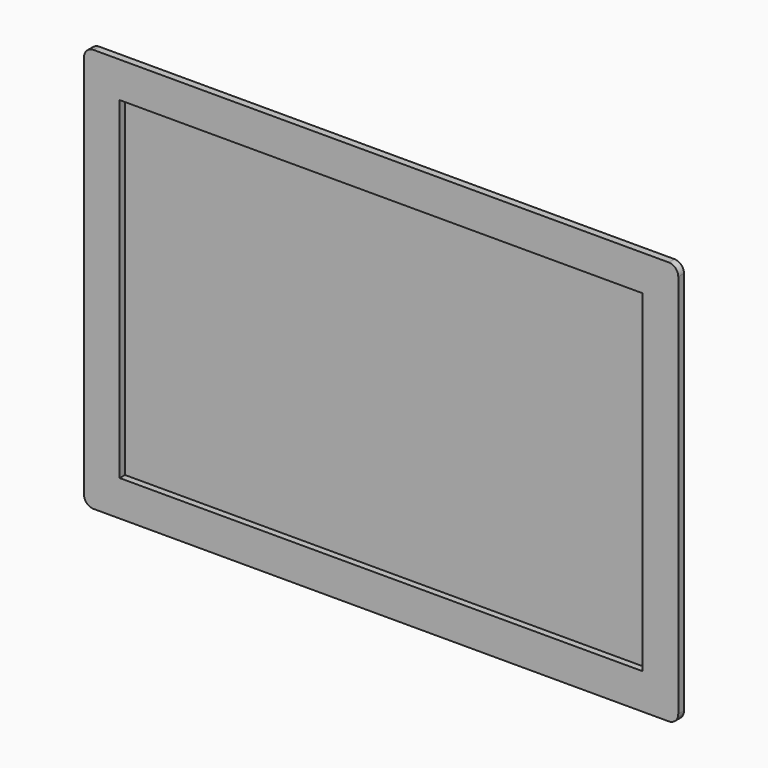
from build123d import *

# Parameters (mm, degrees)
F0_W     = 317.5
F0_H     = 215.9
F1_DEPTH = 3.81
F2_R     = 5.08
F3_R     = 5.08
F4_W     = 279.4
F4_H     = 177.8
F5_DEPTH = 25.4
F6_W     = 279.4
F6_H     = 177.8
F7_DEPTH = 0.254
F8_R     = 27.6352
F9_DEPTH = 0.0635


with BuildPart() as f1:
    # F0 (on Front) → F1 (new body)
    with BuildSketch(Plane.XZ):
        Rectangle(F0_W, F0_H)
    extrude(amount=F1_DEPTH)

    # F2
    f2_edges = [f1.edges().sort_by_distance(p)[0] for p in [
        (-158.75, -1.905, -107.95),
    ]]
    fillet(f2_edges, radius=F2_R)

    # F3
    f3_edges = [f1.edges().sort_by_distance(p)[0] for p in [
        (-158.75, -1.905, 107.95),
        (158.75, -1.905, 107.95),
        (158.75, -1.905, -107.95),
    ]]
    fillet(f3_edges, radius=F3_R)

    # F4 (on face) → F5 (cut)
    with BuildSketch(Plane.XZ.offset(3.81)):
        Rectangle(F4_W, F4_H)
    extrude(amount=-F5_DEPTH, mode=Mode.SUBTRACT)

    # F6 (on face) → F7 (join)
    with BuildSketch(Plane.XZ):
        Rectangle(F6_W, F6_H)
    extrude(amount=F7_DEPTH)

    # F8 (on face) → F9 (cut, symmetric)
    with BuildSketch(Plane.XZ):
        Circle(F8_R)
    extrude(amount=F9_DEPTH, both=True, mode=Mode.SUBTRACT)


solid = f1.part
